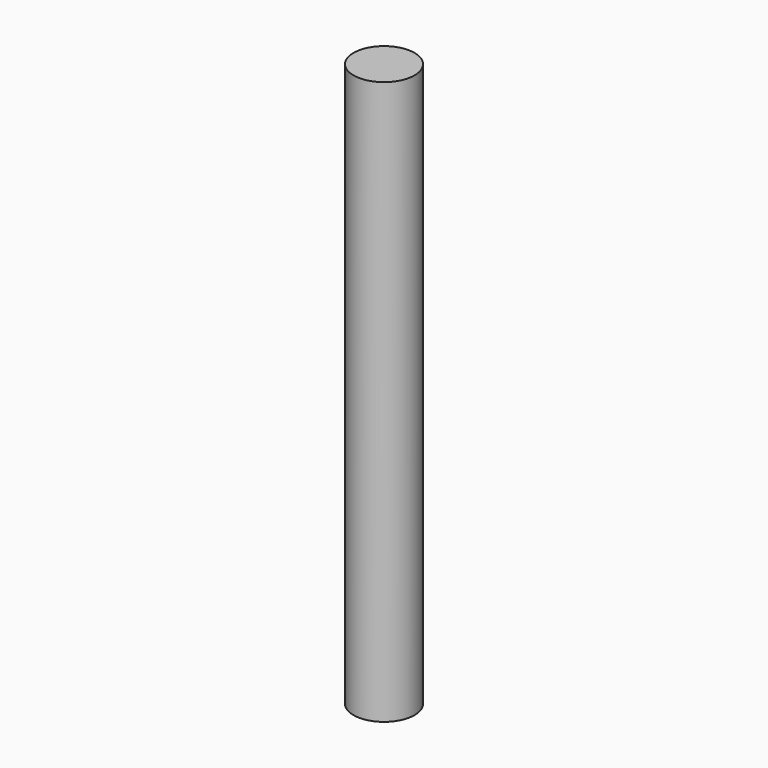
from build123d import *

# Parameters (mm, degrees)
F0_R     = 9.422108
F1_DEPTH = 173.98998


with BuildPart() as f1:
    # F0 (on Top) → F1 (new body)
    with BuildSketch(Plane.XY):
        with Locations((-30.480001, -32.211818)):
            Circle(F0_R)
    extrude(amount=-F1_DEPTH)


solid = f1.part
